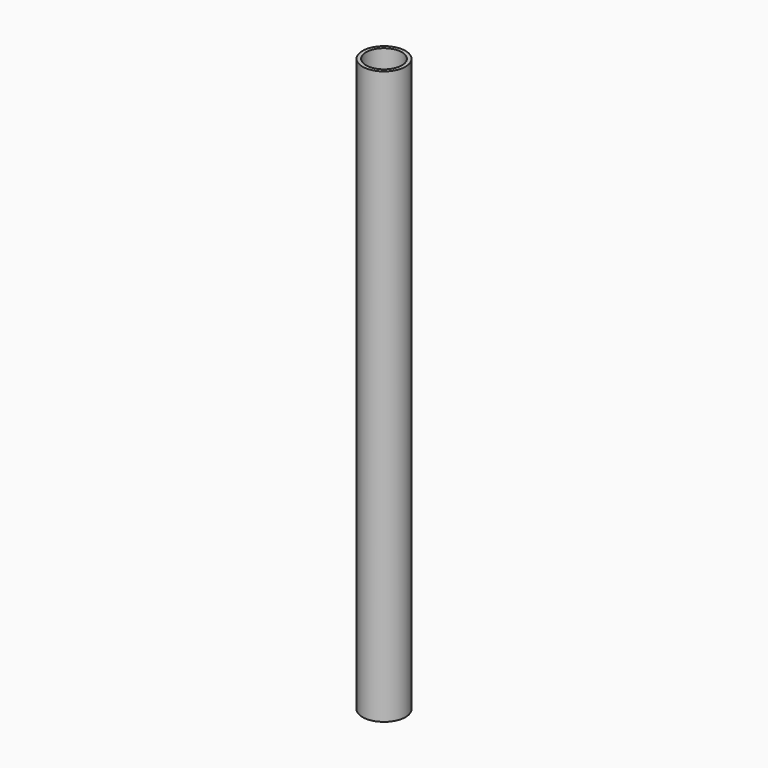
from build123d import *

# Parameters (mm, degrees)
F0_R     = 12.7
F1_DEPTH = 152.4
F2_R     = 15.24
F2_R_2   = 12.7
F3_DEPTH = 203.2


with BuildPart() as f1:
    # F0 (on Top) → F1 (new body, symmetric)
    with BuildSketch(Plane.XY):
        Circle(F0_R)
    extrude(amount=F1_DEPTH, both=True)


with BuildPart() as f3:
    # F2 (on Top) → F3 (new body, symmetric)
    with BuildSketch(Plane.XY):
        Circle(F2_R)
        Circle(F2_R_2, mode=Mode.SUBTRACT)
    extrude(amount=F3_DEPTH, both=True)


solid = Compound([f1.part, f3.part])
